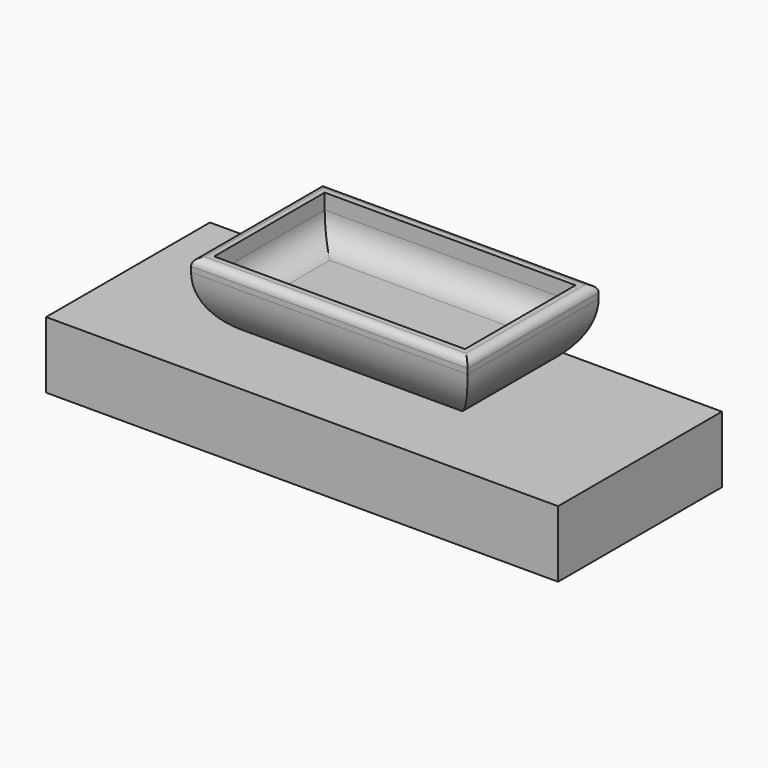
from build123d import *

# Parameters (mm, degrees)
F0_W     = 1000
F0_H     = 400
F1_DEPTH = 130
F3_W     = 540
F3_H     = 320.122876247
F4_DEPTH = 150
F5_R     = 125
F6_R     = 15
F7_W     = 490
F7_H     = 270.122876247
F8_DEPTH = 80
F9_R     = 50


with BuildPart() as f1:
    # F0 (on Top) → F1 (new body)
    with BuildSketch(Plane.XY):
        with Locations((-5.8366749436, -61.7000508067)):
            Rectangle(F0_W, F0_H)
    extrude(amount=F1_DEPTH)


with BuildPart() as f4:
    # F3 (on offset) → F4 (new body)
    with BuildSketch(Plane.XY.offset(130)):
        with Locations((-5.8366749436, -35.2130914107)):
            Rectangle(F3_W, F3_H)
    extrude(amount=F4_DEPTH)

    # F5
    f5_edges = [f4.edges().sort_by_distance(p)[0] for p in [
        (-5.836675, -195.27453, 130),
        (264.163325, -35.213091, 130),
        (-5.836675, 124.848347, 130),
        (-275.836675, -35.213091, 130),
    ]]
    fillet(f5_edges, radius=F5_R)

    # F6
    f6_edges = [f4.edges().sort_by_distance(p)[0] for p in [
        (-5.836675, -195.27453, 280),
        (-275.836675, -35.213091, 280),
        (-5.836675, 124.848347, 280),
        (264.163325, -35.213091, 280),
    ]]
    fillet(f6_edges, radius=F6_R)

    # F7 (on face) → F8 (cut)
    with BuildSketch(Plane.XY.offset(280)):
        with Locations((-5.8366749436, -35.2130914107)):
            Rectangle(F7_W, F7_H)
    extrude(amount=-F8_DEPTH, mode=Mode.SUBTRACT)

    # F9
    f9_edges = [f4.edges().sort_by_distance(p)[0] for p in [
        (-5.836675, 99.848347, 200),
        (-250.836675, -35.213091, 200),
        (239.163325, -35.213091, 200),
        (-5.836675, -170.27453, 200),
    ]]
    fillet(f9_edges, radius=F9_R)


solid = Compound([f1.part, f4.part])
